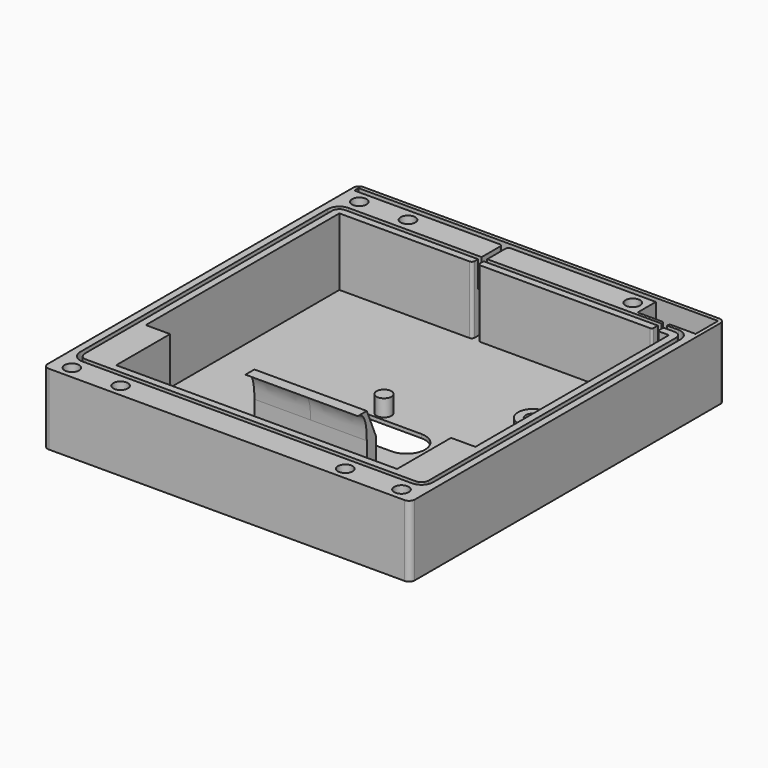
from build123d import *

# Parameters (mm, degrees)
PAD_DEPTH       = 1
PAD001_DEPTH    = 19
SKETCH002_R     = 4
SKETCH002_R_2   = 1.95
SKETCH002_R_3   = 2
PAD002_DEPTH    = 5.5
PAD003_DEPTH    = 15
POCKET_DEPTH    = 7
PAD004_DEPTH    = 1
SKETCH007_R     = 1.95
POCKET001_DEPTH = 5
PAD014_DEPTH    = 1


with BuildPart() as part:
    # Sketch → Pad (new body)
    with BuildSketch(Plane.XY):
        with BuildLine():
            Line((-47.5, -52.5), (47.5, -52.5))
            ThreePointArc((47.5, -52.5), (48.56066, -52.06066), (49, -51))
            Line((49, -51), (49, 51))
            ThreePointArc((49, 51), (48.56066, 52.06066), (47.5, 52.5))
            Line((47.5, 52.5), (-47.5, 52.5))
            ThreePointArc((-47.5, 52.5), (-48.56066, 52.06066), (-49, 51))
            Line((-49, 51), (-49, -51))
            ThreePointArc((-49, -51), (-48.56066, -52.06066), (-47.5, -52.5))
        make_face()
        with BuildLine():
            ThreePointArc((-10, 0), (-15, -5), (-10, -10))
            Line((-10, -10), (10, -10))
            ThreePointArc((10, -10), (15, -5), (10, 0))
            Line((-10, 0), (10, 0))
        make_face(mode=Mode.SUBTRACT)
    extrude(amount=PAD_DEPTH)

    # Sketch001 → Pad001 (join)
    with BuildSketch(Plane.XY):
        with BuildLine():
            Line((-47.5, -52.5), (47.5, -52.5))
            ThreePointArc((47.5, -52.5), (48.56066, -52.06066), (49, -51))
            Line((49, -51), (49, 51))
            ThreePointArc((49, 51), (48.56066, 52.06066), (47.5, 52.5))
            Line((47.5, 52.5), (-47.5, 52.5))
            ThreePointArc((-47.5, 52.5), (-48.56066, 52.06066), (-49, 51))
            Line((-49, 51), (-49, -51))
            ThreePointArc((-49, -51), (-48.56066, -52.06066), (-47.5, -52.5))
        make_face()
        with BuildLine():
            Line((44, 40.1), (44, -24.5))
            Line((44, -24.5), (37.5, -24.5))
            Line((37.5, -24.5), (37.5, -42.5))
            Line((37.5, -42.5), (-37.5, -42.5))
            Line((-37.5, -42.5), (-37.5, -24.5))
            Line((-37.5, -24.5), (-44, -24.5))
            Line((-44, -24.5), (-44, 40.1))
            Line((-44, 40.1), (-9.25, 40.1))
            ThreePointArc((-9.25, 40.1), (-8.71967, 40.31967), (-8.5, 40.85))
            Line((-8.5, 40.85), (-8.5, 49.35))
            ThreePointArc((-8.5, 49.35), (-8.71967, 49.88033), (-9.25, 50.1))
            Line((-9.25, 50.1), (-48, 50.1))
            Line((-48, 50.1), (-48, 51.5))
            Line((-48, 51.5), (48, 51.5))
            Line((48, 44), (48, 51.5))
            Line((48, 44), (41.5, 44))
            ThreePointArc((41.5, 44), (41.146447, 43.853553), (41, 43.5))
            Line((41, 43.5), (41, 40.6))
            ThreePointArc((41, 40.6), (41.146447, 40.246447), (41.5, 40.1))
            Line((41.5, 40.1), (44, 40.1))
        make_face(mode=Mode.SUBTRACT)
        with BuildLine():
            Line((-7, 40.85), (-7, 49.35))
            ThreePointArc((-6.25, 50.1), (-6.78033, 49.88033), (-7, 49.35))
            Line((-6.25, 50.1), (32.5, 50.1))
            Line((32.5, 50.1), (32.5, 44))
            Line((32.5, 44), (39, 44))
            ThreePointArc((39.5, 43.5), (39.353553, 43.853553), (39, 44))
            Line((39.5, 43.5), (39.5, 40.6))
            ThreePointArc((39, 40.1), (39.353553, 40.246447), (39.5, 40.6))
            Line((39, 40.1), (-6.25, 40.1))
            ThreePointArc((-7, 40.85), (-6.78033, 40.31967), (-6.25, 40.1))
        make_face()
    extrude(amount=PAD001_DEPTH)

    # Sketch002 → Pad002 (join)
    with BuildSketch(Plane.XY):
        with Locations((29, 13.5)):
            Circle(SKETCH002_R)
        with Locations((29, 13.5)):
            Circle(SKETCH002_R_2, mode=Mode.SUBTRACT)
        with Locations((29, -8.5)):
            Circle(SKETCH002_R)
        with Locations((29, -8.5)):
            Circle(SKETCH002_R_2, mode=Mode.SUBTRACT)
        with Locations((-2, 2.5)):
            Circle(SKETCH002_R_3)
    extrude(amount=PAD002_DEPTH)

    # Sketch003 → Pad003 (join, symmetric)
    with BuildSketch(Plane.YZ):
        with BuildLine():
            Line((-24.5, 0), (-24.5, 11))
            add(Edge.make_bspline(
                [(-27.5, 18), (-24.5, 18), (-24.5, 11)],
                knots=[0, 0, 0, 1, 1, 1], degree=2))
            Line((-27.5, 18), (-24.5, 18))
            Line((-24.5, 18), (-21.5, 11))
            Line((-21.5, 11), (-21.5, 0))
            Line((-21.5, 0), (-24.5, 0))
        make_face()
    extrude(amount=PAD003_DEPTH, both=True)

    # Sketch004 (on Face14 of Pad003) → Pocket (cut)
    with BuildSketch(Plane.XY.offset(19)):
        with BuildLine():
            Line((47.1, -42.5), (47.1, 40.1))
            ThreePointArc((47.1, 40.1), (46.192031, 42.292031), (44, 43.2))
            Line((44, 43.2), (-44, 43.2))
            ThreePointArc((-44, 43.2), (-46.192031, 42.292031), (-47.1, 40.1))
            Line((-47.1, 40.1), (-47.1, -42.5))
            ThreePointArc((-47.1, -42.5), (-46.192031, -44.692031), (-44, -45.6))
            Line((-44, -45.6), (44, -45.6))
            ThreePointArc((44, -45.6), (46.192031, -44.692031), (47.1, -42.5))
        make_face()
        with BuildLine():
            Line((45.9, -42.5), (45.9, 40.1))
            ThreePointArc((45.9, 40.1), (45.343503, 41.443503), (44, 42))
            Line((44, 42), (-44, 42))
            ThreePointArc((-44, 42), (-45.343503, 41.443503), (-45.9, 40.1))
            Line((-45.9, 40.1), (-45.9, -42.5))
            ThreePointArc((-45.9, -42.5), (-45.343503, -43.843503), (-44, -44.4))
            Line((-44, -44.4), (44, -44.4))
            ThreePointArc((44, -44.4), (45.343503, -43.843503), (45.9, -42.5))
        make_face(mode=Mode.SUBTRACT)
    extrude(amount=-POCKET_DEPTH, mode=Mode.SUBTRACT)

    # Sketch005 → Pad004 (join)
    with BuildSketch(Plane.YZ.offset(36.5)):
        Polygon((-24.5, 0), (-24.5, 4), (-38.5, 4), (-38.5, 15), (-42.5, 15), (-42.5, 0), align=None)
    extrude(amount=PAD004_DEPTH)

    # Sketch007 (on DatumPlane) → Pocket001 (cut)
    with BuildSketch(Plane.XY.offset(19)):
        with Locations((-44, -49.166667)):
            Circle(SKETCH007_R)
        with Locations((44, -49.166667)):
            Circle(SKETCH007_R)
        with Locations((-44, 46.766667)):
            Circle(SKETCH007_R)
        with Locations((29, 46.766667)):
            Circle(SKETCH007_R)
        with Locations((-31, 46.766667)):
            Circle(SKETCH007_R)
        with Locations((29, -49.166667)):
            Circle(SKETCH007_R)
        with Locations((-31, -49.166667)):
            Circle(SKETCH007_R)
    extrude(amount=-POCKET001_DEPTH, mode=Mode.SUBTRACT)

    # Sketch006 → Pad014 (join)
    with BuildSketch(Plane.YZ.offset(-37.5)):
        Polygon((-42.5, 0), (-42.5, 15), (-38.5, 15), (-38.5, 4), (-24.5, 4), (-24.5, 0), align=None)
    extrude(amount=PAD014_DEPTH)


solid = part.part
